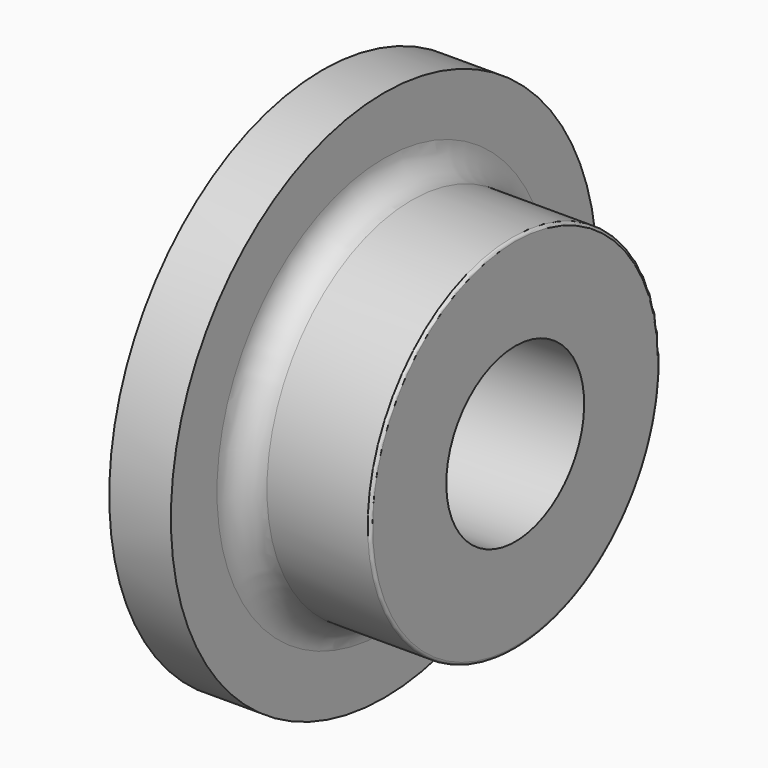
from build123d import *

# Parameters (mm, degrees)
F0_W   = 24.017472
F0_H   = 17.362025
F0_W_2 = 11.285316
F0_H_2 = 15.625823
F2_R   = 5.08
F3_R   = 0.508


with BuildPart() as f1:
    # F0 (on Front) → F1 (revolve)
    with BuildSketch(Plane.XZ):
        with Locations((23.294052, 24.451518)):
            Rectangle(F0_W, F0_H)
        with Locations((5.642658, 40.945442)):
            Rectangle(F0_W_2, F0_H_2)
        with Locations((5.642658, 24.451518)):
            Rectangle(F0_W_2, F0_H)
    revolve(axis=Axis((42.247593, 0, 0), (1, 0, 0)))

    # F2
    f2_edges = [f1.edges().sort_by_distance(p)[0] for p in [
        (11.285316, 0, -33.132531),
    ]]
    fillet(f2_edges, radius=F2_R)

    # F3
    f3_edges = [f1.edges().sort_by_distance(p)[0] for p in [
        (35.302788, 0, -33.132531),
    ]]
    fillet(f3_edges, radius=F3_R)


solid = f1.part
